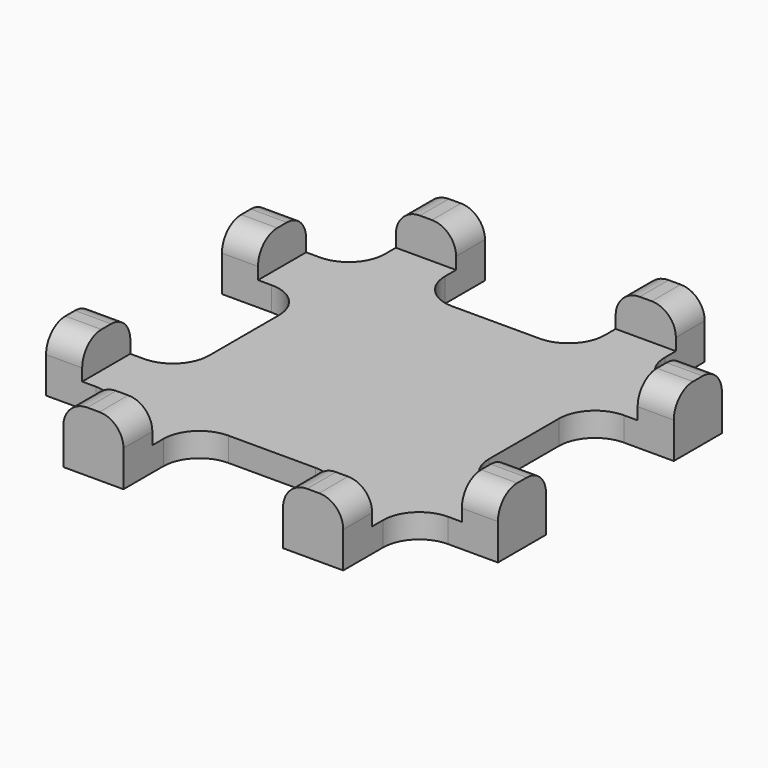
from build123d import *

# Parameters (mm, degrees)
F1_DEPTH = 2
F2_W     = 5
F2_H     = 3
F2_W_2   = 3
F2_H_2   = 5
F3_DEPTH = 3
F4_R     = 3
F5_R     = 2


with BuildPart() as f1:
    # F0 (on Top) → F1 (new body)
    with BuildSketch(Plane.XY):
        Polygon((0, 13.26), (0, 0), (-7.14, 0), (-7.14, -5), (0, -5), (0, -12.14), (5, -12.14), (5, -5), (18.26, -5), (18.26, -12.14), (23.26, -12.14), (23.26, -5), (30.4, -5), (30.4, 0), (23.26, 0), (23.26, 13.26), (30.4, 13.26), (30.4, 18.26), (23.26, 18.26), (23.26, 25.4), (18.26, 25.4), (18.26, 18.26), (5, 18.26), (5, 25.4), (0, 25.4), (0, 18.26), (-7.14, 18.26), (-7.14, 13.26), align=None)
    extrude(amount=F1_DEPTH)

    # F2 (on face) → F3 (join)
    with BuildSketch(Plane.XY.offset(2)):
        with Locations((2.5, 23.9)):
            Rectangle(F2_W, F2_H)
        with Locations((20.76, 23.9)):
            Rectangle(F2_W, F2_H)
        with Locations((-5.64, 15.76)):
            Rectangle(F2_W_2, F2_H_2)
        with Locations((28.9, 15.76)):
            Rectangle(F2_W_2, F2_H_2)
        with Locations((28.9, -2.5)):
            Rectangle(F2_W_2, F2_H_2)
        with Locations((20.76, -10.64)):
            Rectangle(F2_W, F2_H)
        with Locations((2.5, -10.64)):
            Rectangle(F2_W, F2_H)
        with Locations((-5.64, -2.5)):
            Rectangle(F2_W_2, F2_H_2)
    extrude(amount=F3_DEPTH)

    # F4
    f4_edges = [f1.edges().sort_by_distance(p)[0] for p in [
        (18.26, 18.26, 1),
        (5, 18.26, 1),
        (0, 18.26, 1),
        (0, 13.26, 1),
        (0, 0, 1),
        (0, -5, 1),
        (5, -5, 1),
        (18.26, -5, 1),
        (23.26, -5, 1),
        (23.26, 13.26, 1),
        (23.26, 0, 1),
        (23.26, 18.26, 1),
    ]]
    fillet(f4_edges, radius=F4_R)

    # F5
    f5_edges = [f1.edges().sort_by_distance(p)[0] for p in [
        (-5.64, -5, 5),
        (-5.64, 0, 5),
        (-5.64, 13.26, 5),
        (-5.64, 18.26, 5),
        (0, 23.9, 5),
        (5, 23.9, 5),
        (18.26, 23.9, 5),
        (23.26, 23.9, 5),
        (28.9, 13.26, 5),
        (28.9, 18.26, 5),
        (28.9, -5, 5),
        (28.9, 0, 5),
        (23.26, -10.64, 5),
        (18.26, -10.64, 5),
        (5, -10.64, 5),
        (0, -10.64, 5),
    ]]
    fillet(f5_edges, radius=F5_R)


solid = f1.part
